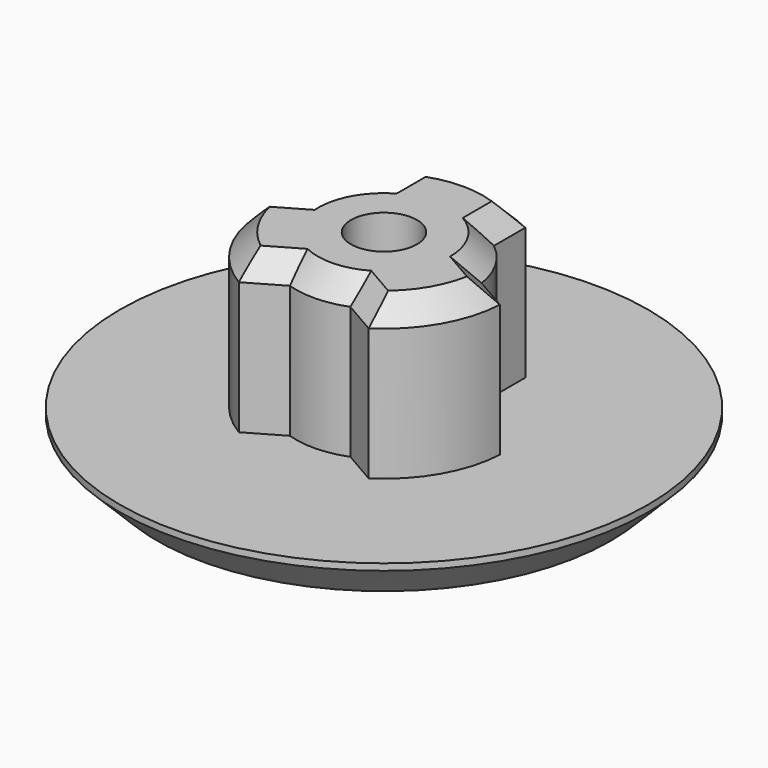
from build123d import *

# Parameters (mm, degrees)
SKETCH_R        = 1.5
PAD_DEPTH       = 7
SKETCH001_R     = 12
SKETCH001_R_2   = 1.5
PAD001_DEPTH    = 2
CHAMFER_SIZE    = 1
CHAMFER001_SIZE = 1.7


with BuildPart() as part:
    # Sketch → Pad (new body)
    with BuildSketch(Plane.XY):
        with BuildLine():
            ThreePointArc((-2.5, 3.122499), (-3.518971, 1.901799), (-3.981855, 0.380567))
            Line((-5.478695, -0.483634), (-3.981855, 0.380567))
            ThreePointArc((-5.478695, -0.483634), (-4.659167, -2.922699), (-2.81991, -4.722087))
            Line((-1.232265, -3.80546), (-2.81991, -4.722087))
            ThreePointArc((-1.232265, -3.80546), (0.117848, -3.998264), (1.454262, -3.726275))
            Line((2.992718, -4.614503), (1.454262, -3.726275))
            ThreePointArc((2.992718, -4.614503), (4.763149, -2.749985), (5.492638, -0.284484))
            Line((3.954108, 0.604177), (5.492638, -0.284484))
            ThreePointArc((3.954108, 0.604177), (3.46401, 2.000159), (2.5, 3.122499))
            Line((2.5, 3.122499), (2.5, 4.898979))
            ThreePointArc((2.5, 4.898979), (0, 5.5), (-2.5, 4.898979))
            Line((-2.5, 3.122499), (-2.5, 4.898979))
        make_face()
        Circle(SKETCH_R, mode=Mode.SUBTRACT)
    extrude(amount=PAD_DEPTH)

    # Sketch001 (on Face14 of Pad) → Pad001 (join)
    with BuildSketch(Plane(origin=(0, 0, 0), x_dir=(1, 0, 0), z_dir=(0, 0, -1))):
        Circle(SKETCH001_R)
        Circle(SKETCH001_R_2, mode=Mode.SUBTRACT)
    extrude(amount=PAD001_DEPTH)

    # Chamfer
    chamfer_edges = [part.edges().sort_by_distance(p)[0] for p in [
        (-2.026088, -4.263773, 7),
        (0.117848, -3.998264, 7),
        (2.22349, -4.170389, 7),
        (4.763149, -2.749985, 7),
        (3.46401, 2.000159, 7),
        (4.723373, 0.159847, 7),
        (2.5, 4.010739, 7),
        (0, 5.5, 7),
        (-2.5, 4.010739, 7),
        (-3.518971, 1.901799, 7),
        (-4.730275, -0.051534, 7),
        (-4.659167, -2.922699, 7),
    ]]
    chamfer(chamfer_edges, length=CHAMFER_SIZE)

    # Chamfer001
    chamfer001_edges = [part.edges().sort_by_distance(p)[0] for p in [
        (-12, 0, -2),
    ]]
    chamfer(chamfer001_edges, length=CHAMFER001_SIZE)


solid = part.part
